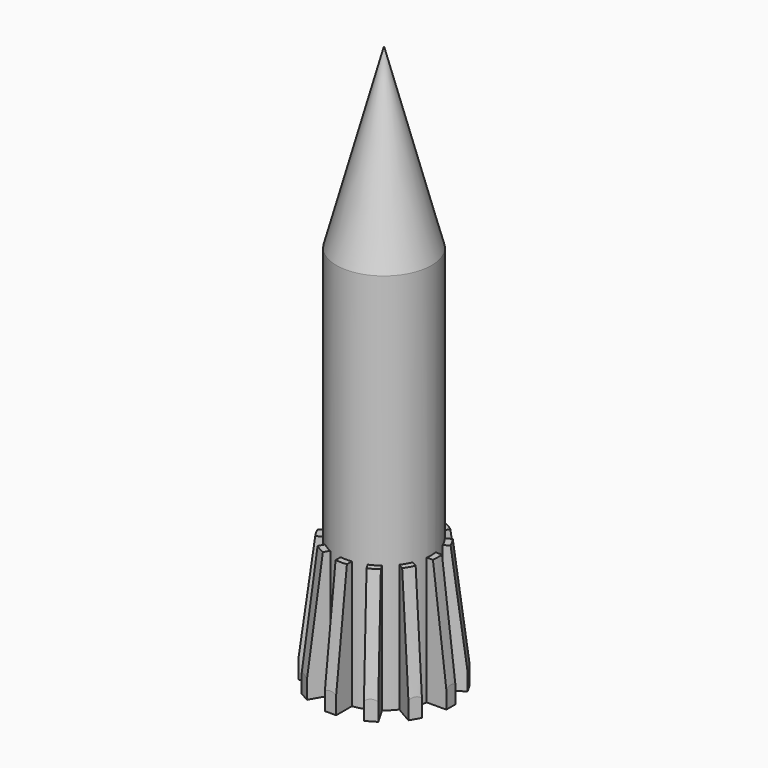
from build123d import *

# Parameters (mm, degrees)
F0_R      = 18.9595405406
F1_DEPTH  = 152.4
F2_R      = 18.9595405406
F3_DEPTH  = 76.2
F3_TAPER  = 15
F4_W      = 53.2747134566
F4_H      = 4.5048468746
F5_DEPTH  = 50.8
F9_COUNT  = 8
F9_ANGLE  = 210
F10_R     = 13.3778367219
F11_DEPTH = 151.692


with BuildPart() as f1:
    # F0 (on Top) → F1 (new body)
    with BuildSketch(Plane.XY):
        Circle(F0_R)
    extrude(amount=F1_DEPTH)

    # F2 (on face) → F3 (join)
    with BuildSketch(Plane.XY.offset(152.4)):
        Circle(F2_R)
    extrude(amount=F3_DEPTH, taper=F3_TAPER)

    # F4 (on face) → F5 (join)
    with BuildSketch(Plane(origin=(0, 0, 0), x_dir=(1, 0, 0), z_dir=(0, 0, -1))):
        Rectangle(F4_W, F4_H)
    extrude(amount=-F5_DEPTH)

    # F6 (on Front) → F7 (revolve, cut)
    with BuildSketch(Plane.XZ):
        Polygon((-27.585586533, 0), (-21.0148207843, 54.1184917092), (-34.3035459518, 55.4788671434), align=None)
    revolve(axis=Axis((0, 0, -8.6749633774), (0, 0, -1)), mode=Mode.SUBTRACT)

    # F9: F1 ×8 about axis
    f9_axis = Axis((0, 0, -6.7568952218), (0, 0, -1))


with BuildPart() as f1_1:
    add(f1.part)
    for i in range(1, F9_COUNT):
        add(f1.part.rotate(f9_axis, i * F9_ANGLE / (F9_COUNT - 1)))

    # F10 (on face) → F11 (cut)
    with BuildSketch(Plane(origin=(0, 0, 0), x_dir=(1, 0, 0), z_dir=(0, 0, -1))):
        Circle(F10_R)
    extrude(amount=-F11_DEPTH, mode=Mode.SUBTRACT)


solid = f1_1.part
